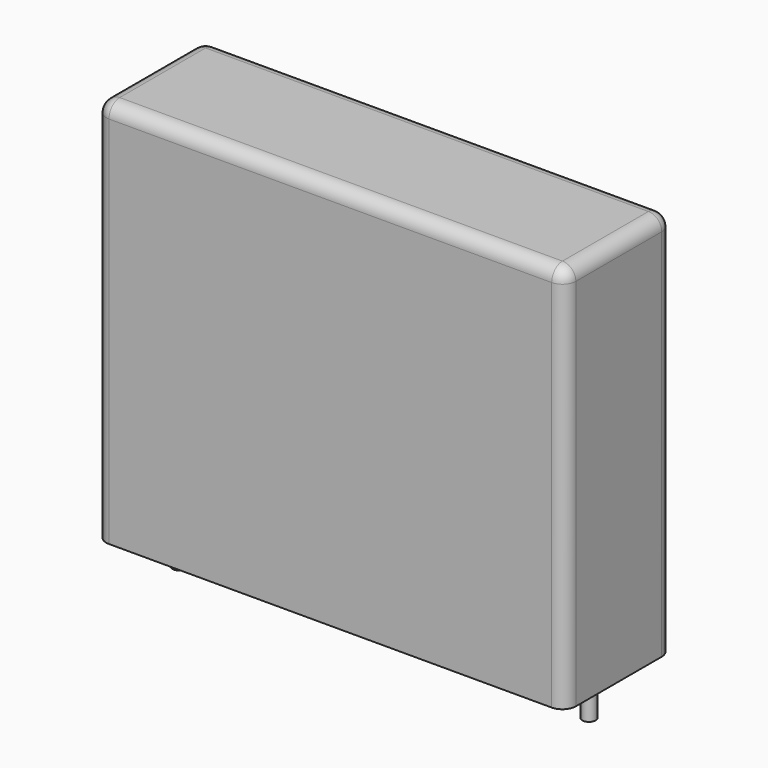
from build123d import *

# Parameters (mm, degrees)
SKETCH_W     = 31.5
SKETCH_H     = 9
PAD_DEPTH    = 26
FILLET_R     = 0.9
SKETCH001_R  = 0.45
PAD001_DEPTH = 3.2


with BuildPart() as fillet_body:
    # Sketch → Pad (new body)
    with BuildSketch(Plane.XY.offset(0.1)):
        with Locations((13.75, 0)):
            Rectangle(SKETCH_W, SKETCH_H)
    extrude(amount=PAD_DEPTH)

    # Fillet
    fillet_edges = [fillet_body.edges().sort_by_distance(p)[0] for p in [
        (-2, 0, 26.1),
        (-2, -4.5, 13.1),
        (13.75, -4.5, 26.1),
        (29.5, -4.5, 13.1),
        (29.5, 0, 26.1),
        (29.5, 4.5, 13.1),
        (13.75, 4.5, 26.1),
        (-2, 4.5, 13.1),
    ]]
    fillet(fillet_edges, radius=FILLET_R)


with BuildPart() as pad001:
    # Sketch001 → Pad001 (new body)
    with BuildSketch(Plane.XY.offset(0.5)):
        Circle(SKETCH001_R)
        with Locations((27.5, 0)):
            Circle(SKETCH001_R)
    extrude(amount=-PAD001_DEPTH)


solid = Compound([fillet_body.part, pad001.part])
